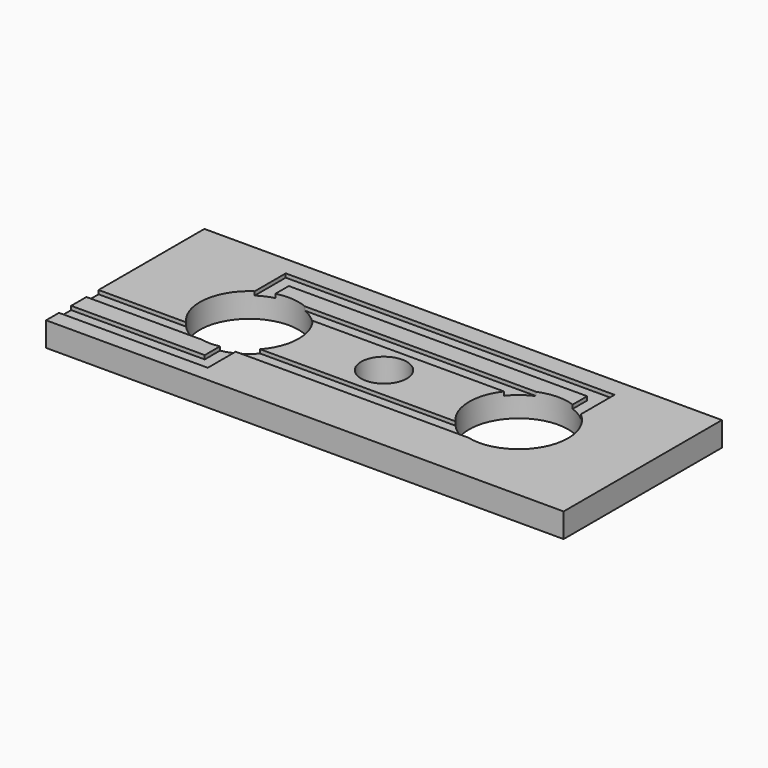
from build123d import *

# Parameters (mm, degrees)
F0_W     = 34
F0_H     = 13
F1_DEPTH = 1.6
F2_R     = 3.25
F3_DEPTH = 1.601
F4_R     = 1.5
F5_DEPTH = 1.601
F7_DEPTH = 0.25


with BuildPart() as f1:
    # F0 (on Top) → F1 (new body)
    with BuildSketch(Plane.XY):
        Rectangle(F0_W, F0_H)
    extrude(amount=F1_DEPTH)

    # F2 (on face) → F3 (cut, through all)
    with BuildSketch(Plane.XY.offset(1.6)):
        with Locations((-8.85, 0)):
            Circle(F2_R)
        with Locations((8.85, 0)):
            Circle(F2_R)
    extrude(amount=-F3_DEPTH, mode=Mode.SUBTRACT)

    # F4 (on face) → F5 (cut, through all)
    with BuildSketch(Plane.XY.offset(1.6)):
        Circle(F4_R)
    extrude(amount=-F5_DEPTH, mode=Mode.SUBTRACT)

    # F6 (on face) → F7 (cut)
    with BuildSketch(Plane.XY.offset(1.6)):
        with BuildLine():
            ThreePointArc((-10.6551859497, 2.7025550294), (-10.1741098428, 2.9680352296), (-9.6551859497, 3.1486783873))
            Line((-9.6551859497, 3.1486783873), (-9.6551859497, 4.25))
            Line((-9.6551859497, 4.25), (9.9456183744, 4.25))
            Line((9.9456183744, 4.25), (9.9456183744, 3.0597582221))
            ThreePointArc((9.9456183744, 3.0597582221), (10.4713685624, 2.8166760525), (10.9456183744, 2.4841263311))
            Line((10.9456183744, 2.4841263311), (10.9456183744, 5.25))
            Line((10.9456183744, 5.25), (-10.6551859497, 5.25))
            Line((-10.6551859497, 5.25), (-10.6551859497, 2.7025550294))
        make_face()
        with BuildLine():
            ThreePointArc((-8.4051859497, 3.2194161677), (-9.0336244397, 3.244808479), (-9.6551859497, 3.1486783873))
            ThreePointArc((-9.6551859497, 3.1486783873), (-10.1741098428, 2.9680352296), (-10.6551859497, 2.7025550294))
            ThreePointArc((-10.6551859497, 2.7025550294), (-12.0760849491, 0.3935427562), (-11.2519368041, -2.1893377055))
            ThreePointArc((-11.2519368041, -2.1893377055), (-10.4439217685, -2.8322982534), (-9.475, -3.1893377055))
            ThreePointArc((-9.475, -3.1893377055), (-8.85, -3.25), (-8.225, -3.1893377055))
            ThreePointArc((-8.225, -3.1893377055), (-7.7095021463, -3.0433147464), (-7.225, -2.8145825623))
            ThreePointArc((-7.225, -2.8145825623), (-6.7923319785, -2.5156514689), (-6.4135405563, -2.1508522448))
            ThreePointArc((-6.4135405563, -2.1508522448), (-5.8101814863, -1.1497840684), (-5.6, 0))
            ThreePointArc((-5.6, 0), (-5.7768788262, 1.0575567367), (-6.2882623085, 2))
            ThreePointArc((-6.2882623085, 2), (-6.8796355522, 2.5846013122), (-7.6, 3))
            Line((-7.6, 3), (-8.4051859497, 3))
            Line((-8.4051859497, 3), (-8.4051859497, 3.2194161677))
        make_face()
        with BuildLine():
            Line((7.6, 3), (-7.6, 3))
            ThreePointArc((-7.6, 3), (-6.8796355522, 2.5846013122), (-6.2882623085, 2))
            Line((-6.2882623085, 2), (6.2882623085, 2))
            ThreePointArc((6.2882623085, 2), (6.8796355522, 2.5846013122), (7.6, 3))
        make_face()
        with BuildLine():
            ThreePointArc((8.0533632375, -3.1508522448), (7.1578925065, -2.774756247), (6.4135405563, -2.1508522448))
            Line((6.4135405563, -2.1508522448), (-6.4135405563, -2.1508522448))
            ThreePointArc((-6.4135405563, -2.1508522448), (-6.7923319785, -2.5156514689), (-7.225, -2.8145825623))
            Line((-7.225, -2.8145825623), (-7.225, -3.1508522448))
            Line((-7.225, -3.1508522448), (8.0533632375, -3.1508522448))
        make_face()
        with BuildLine():
            ThreePointArc((-7.225, -2.8145825623), (-7.7095021463, -3.0433147464), (-8.225, -3.1893377055))
            Line((-8.225, -3.1893377055), (-8.225, -4.4393377055))
            Line((-8.225, -4.4393377055), (-17, -4.4393377055))
            Line((-17, -4.4393377055), (-17, -5.4393377055))
            Line((-17, -5.4393377055), (-7.225, -5.4393377055))
            Line((-7.225, -5.4393377055), (-7.225, -3.1508522448))
            Line((-7.225, -3.1508522448), (-7.225, -2.8145825623))
        make_face()
        with BuildLine():
            ThreePointArc((-9.475, -3.1893377055), (-10.4439217685, -2.8322982534), (-11.2519368041, -2.1893377055))
            Line((-11.2519368041, -2.1893377055), (-17, -2.1893377055))
            Line((-17, -2.1893377055), (-17, -3.1893377055))
            Line((-17, -3.1893377055), (-9.475, -3.1893377055))
        make_face()
    extrude(amount=-F7_DEPTH, mode=Mode.SUBTRACT)


solid = f1.part
